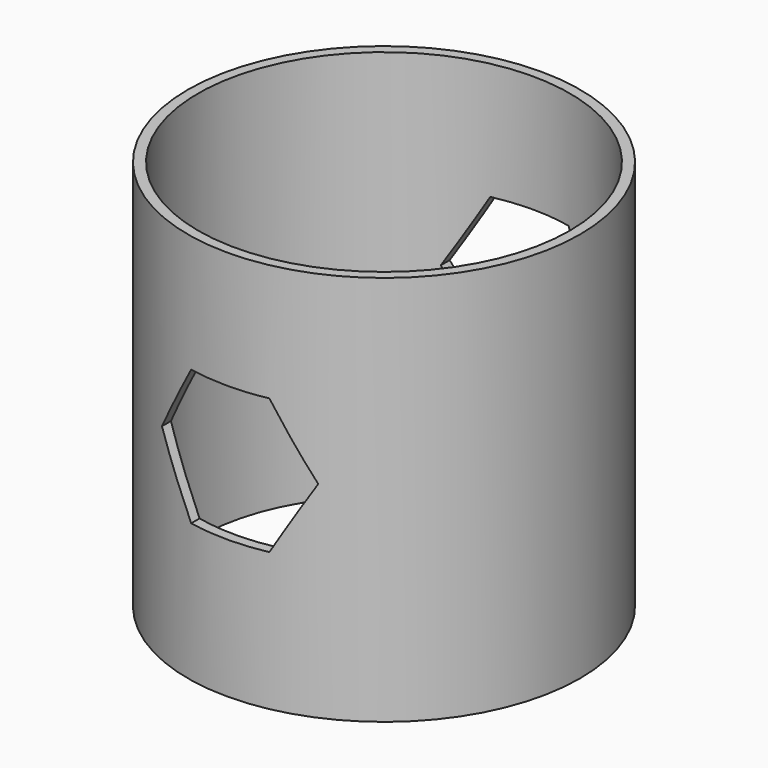
from build123d import *

# Parameters (mm, degrees)
SKETCH_R     = 50.164311
PAD_DEPTH    = 100
SKETCH001_R  = 47.549829
POCKET_DEPTH = 100.001


with BuildPart() as part:
    # Sketch → Pad (new body)
    with BuildSketch(Plane.XY):
        Circle(SKETCH_R)
    extrude(amount=PAD_DEPTH)

    # Sketch001 (on Face3 of Pad) → Pocket (cut, through all)
    with BuildSketch(Plane.XY.offset(100)):
        Circle(SKETCH001_R)
    extrude(amount=-POCKET_DEPTH, mode=Mode.SUBTRACT)

    # Sketch003 → SubtractiveLoft section 0
    with BuildSketch(Plane.XZ.offset(51)):
        Polygon((9.990768, 70), (-10.009232, 70), (-20.009232, 52.679492), (-10.009232, 35.358984), (9.990768, 35.358984), (19.990768, 52.679492), align=None)
    # Sketch004 → SubtractiveLoft section 1
    with BuildSketch(Plane.XZ.offset(-51)):
        Polygon((20, 52.685847), (10, 70.006355), (-10, 70.006355), (-20, 52.685847), (-10, 35.365339), (10, 35.365339), align=None)
    loft(ruled=True, mode=Mode.SUBTRACT)


solid = part.part
